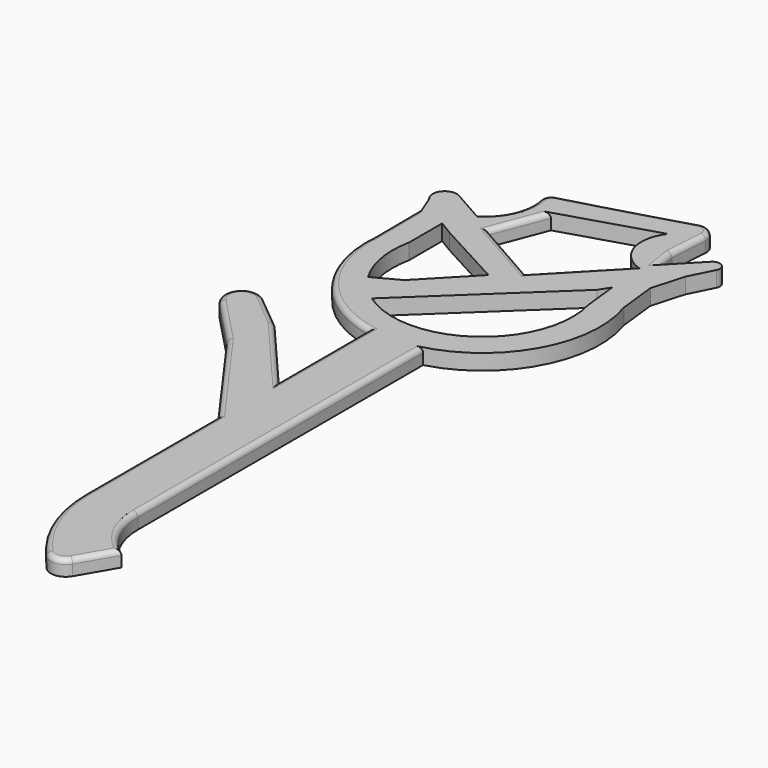
from build123d import *

# Parameters (mm, degrees)
F1_DEPTH = 1.5875
F2_R     = 0.508


with BuildPart() as f1:
    # F0 (on Top) → F1 (new body)
    with BuildSketch(Plane.XY):
        with BuildLine():
            Line((0, 0), (0, 36.181841))
            ThreePointArc((0, 36.181841), (7.365943, 42.068416), (8.157768, 51.46426))
            Line((8.157768, 51.46426), (7.721588, 55.367384))
            Line((7.721588, 55.367384), (8.652184, 58.648949))
            Line((8.652184, 58.648949), (9.870096, 61.084771))
            ThreePointArc((9.870096, 61.084771), (9.625521, 62.031582), (8.652184, 61.937326))
            Line((8.652184, 61.937326), (5.601979, 58.772682))
            Line((5.601979, 58.772682), (5.208922, 61.257325))
            Line((5.208922, 61.257325), (5.464944, 65.217614))
            ThreePointArc((5.464944, 65.217614), (4.987229, 66.294216), (3.830332, 66.515285))
            ThreePointArc((3.830332, 66.515285), (-2.071538, 64.775722), (-7.996314, 63.115845))
            ThreePointArc((-7.996314, 63.115845), (-8.59693, 62.663559), (-8.722139, 61.922193))
            ThreePointArc((-8.722139, 61.922193), (-9.034725, 58.886588), (-11.072643, 56.615136))
            Line((-11.072643, 56.615136), (-14.036038, 58.300966))
            ThreePointArc((-14.036038, 58.300966), (-15.610352, 57.989945), (-15.532072, 56.387113))
            Line((-15.532072, 56.387113), (-15.084018, 55.249624))
            Line((-15.084018, 55.249624), (-15.034714, 48.831713))
            ThreePointArc((-15.034714, 48.831713), (-12.693009, 40.514111), (-5.350228, 35.95893))
            Line((-5.350228, 35.95893), (-5.350228, 24.574336))
            Line((-5.350228, 24.574336), (-11.894111, 32.207083))
            Line((-11.894111, 32.207083), (-15.489053, 35.177361))
            ThreePointArc((-15.489053, 35.177361), (-17.791277, 34.799442), (-17.699574, 32.468208))
            Line((-17.699574, 32.468208), (-13.094822, 27.652631))
            Line((-13.094822, 27.652631), (-5.350228, 16.878592))
            Line((-5.350228, 16.878592), (-5.350228, 0))
            ThreePointArc((-5.350228, 0), (-4.344885, -5.247215), (-1.471247, -9.751234))
            ThreePointArc((-1.471247, -9.751234), (-0.189936, -10.218473), (0.952239, -9.473151))
            Line((0.952239, -9.473151), (3.04463, -5.891468))
            ThreePointArc((3.04463, -5.891468), (0.806147, -3.31584), (0, 0))
        make_face()
        with BuildLine():
            Line((-3.706487, 49.114973), (-8.372727, 44.273662))
            Line((-8.372727, 44.273662), (-10.95271, 42.896778))
            ThreePointArc((-10.95271, 42.896778), (-12.170993, 46.115262), (-12.113919, 49.556133))
            Line((-12.113919, 49.556133), (-12.113919, 53.752957))
            Line((-12.113919, 53.752957), (-10.684032, 52.888518))
            Line((-10.684032, 52.888518), (-3.706487, 49.114973))
        make_face(mode=Mode.SUBTRACT)
        with BuildLine():
            ThreePointArc((5.67868, 50.048354), (2.07604, 40.184885), (-8.42475, 40.206277))
            Line((-8.42475, 40.206277), (4.606551, 52.521817))
            Line((4.606551, 52.521817), (5.284048, 53.579681))
            Line((5.284048, 53.579681), (5.67868, 50.048354))
        make_face(mode=Mode.SUBTRACT)
        with BuildLine():
            Line((4.513334, 57.643192), (-1.646189, 51.252572))
            Line((-1.646189, 51.252572), (-8.593214, 55.204628))
            Line((-8.593214, 55.204628), (-6.536069, 60.575932))
            Line((-6.536069, 60.575932), (2.98464, 63.507594))
            ThreePointArc((2.98464, 63.507594), (2.320412, 60.203001), (4.513334, 57.643192))
        make_face(mode=Mode.SUBTRACT)
    extrude(amount=F1_DEPTH)

    # F2
    f2_edges = [f1.edges().sort_by_distance(p)[0] for p in [
        (-7.564642, 57.89028, 1.5875),
        (-5.119701, 53.2286, 1.5875),
        (1.433573, 54.447882, 1.5875),
        (-9.034725, 58.886588, 1.5875),
        (5.405451, 60.015003, 1.5875),
        (-15.059366, 52.040668, 1.5875),
        (-12.693009, 40.514111, 1.5875),
        (-5.350228, 30.266633, 1.5875),
        (-8.622169, 28.390709, 1.5875),
        (-13.691582, 33.692222, 1.5875),
        (-17.791277, 34.799442, 1.5875),
        (-15.397198, 30.060419, 1.5875),
        (-9.222525, 22.265611, 1.5875),
        (-5.350228, 8.439296, 1.5875),
        (0.806147, -3.31584, 1.5875),
    ]]
    fillet(f2_edges, radius=F2_R)


solid = f1.part
